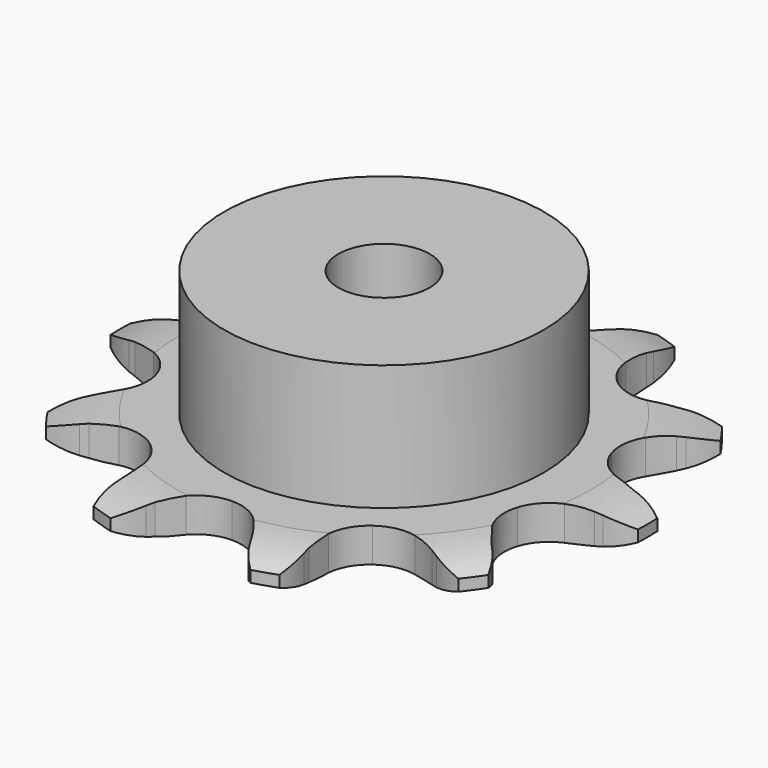
from build123d import *

# Parameters (mm, degrees)
PAD_DEPTH         = 3
SKETCH001_R       = 14
PAD001_DEPTH      = 14
SKETCH002_R       = 4
POCKET_DEPTH      = 0.001
POCKET_DEPTH_BACK = -14.001


with BuildPart() as part:
    # Sprocket → Pad (new body)
    with BuildSketch(Plane.XY):
        with BuildLine():
            ThreePointArc((-7.525974, 23.162566), (-5.805769, 21.995095), (-4.535038, 20.349696))
            Line((-4.535038, 20.349696), (-4.216941, 19.766264))
            ThreePointArc((-4.216941, 19.766264), (-3.641074, 18.833857), (-2.967877, 17.969096))
            ThreePointArc((-2.967877, 17.969096), (-1.630771, 16.970632), (0, 16.616557))
            ThreePointArc((0, 16.616557), (1.630771, 16.970632), (2.967877, 17.969096))
            ThreePointArc((2.967877, 17.969096), (3.641074, 18.833857), (4.216941, 19.766264))
            Line((4.216941, 19.766264), (4.535038, 20.349696))
            ThreePointArc((4.535038, 20.349696), (5.805769, 21.995095), (7.525974, 23.162566))
            ThreePointArc((7.525974, 23.162566), (8.231427, 21.206951), (8.292328, 19.128878))
            Line((8.292328, 19.128878), (8.206742, 18.4699))
            ThreePointArc((8.206742, 18.4699), (8.124572, 17.37708), (8.160907, 16.281778))
            ThreePointArc((8.160907, 16.281778), (8.655766, 14.688072), (9.766967, 13.443077))
            ThreePointArc((9.766967, 13.443077), (11.294408, 12.770986), (12.963032, 12.79283))
            Line((12.963032, 12.79283), (15.029896, 13.512588))
            ThreePointArc((15.029896, 13.512588), (15.327698, 13.660027), (15.630174, 13.797621))
            ThreePointArc((15.630174, 13.797621), (17.625358, 14.38186), (19.703255, 14.315253))
            ThreePointArc((19.703255, 14.315253), (19.124497, 12.318472), (17.952307, 10.601479))
            Line((17.952307, 10.601479), (17.495728, 10.118661))
            ThreePointArc((17.495728, 10.118661), (16.786908, 9.282849), (16.172501, 8.375374))
            ThreePointArc((16.172501, 8.375374), (15.636094, 6.795169), (15.803284, 5.134798))
            ThreePointArc((15.803284, 5.134798), (16.643966, 3.693258), (18.00675, 2.730138))
            Line((18.00675, 2.730138), (20.101941, 2.097562))
            ThreePointArc((20.101941, 2.097562), (20.42953, 2.041799), (20.755114, 1.975324))
            ThreePointArc((20.755114, 1.975324), (22.712659, 1.275244), (24.354563, 0))
            ThreePointArc((24.354563, 0), (22.712659, -1.275244), (20.755114, -1.975324))
            Line((20.755114, -1.975324), (20.101941, -2.097562))
            ThreePointArc((20.101941, -2.097562), (19.037216, -2.357114), (18.00675, -2.730138))
            ThreePointArc((18.00675, -2.730138), (16.643966, -3.693258), (15.803284, -5.134798))
            ThreePointArc((15.803284, -5.134798), (15.636094, -6.795169), (16.172501, -8.375374))
            Line((16.172501, -8.375374), (17.495728, -10.118661))
            ThreePointArc((17.495728, -10.118661), (17.727976, -10.356326), (17.952307, -10.601479))
            ThreePointArc((17.952307, -10.601479), (19.124497, -12.318472), (19.703255, -14.315253))
            ThreePointArc((19.703255, -14.315253), (17.625358, -14.38186), (15.630174, -13.797621))
            Line((15.630174, -13.797621), (15.029896, -13.512588))
            ThreePointArc((15.029896, -13.512588), (14.015954, -13.09674), (12.963032, -12.79283))
            ThreePointArc((12.963032, -12.79283), (11.294408, -12.770986), (9.766967, -13.443077))
            ThreePointArc((9.766967, -13.443077), (8.655766, -14.688072), (8.160907, -16.281778))
            Line((8.160907, -16.281778), (8.206742, -18.4699))
            ThreePointArc((8.206742, -18.4699), (8.254938, -18.798687), (8.292328, -19.128878))
            ThreePointArc((8.292328, -19.128878), (8.231427, -21.206951), (7.525974, -23.162566))
            ThreePointArc((7.525974, -23.162566), (5.805769, -21.995095), (4.535038, -20.349696))
            Line((4.535038, -20.349696), (4.216941, -19.766264))
            ThreePointArc((4.216941, -19.766264), (3.641074, -18.833857), (2.967877, -17.969096))
            ThreePointArc((2.967877, -17.969096), (1.630771, -16.970632), (0, -16.616557))
            ThreePointArc((0, -16.616557), (-1.630771, -16.970632), (-2.967877, -17.969096))
            Line((-2.967877, -17.969096), (-4.216941, -19.766264))
            ThreePointArc((-4.216941, -19.766264), (-4.371206, -20.060588), (-4.535038, -20.349696))
            ThreePointArc((-4.535038, -20.349696), (-5.805769, -21.995095), (-7.525974, -23.162566))
            ThreePointArc((-7.525974, -23.162566), (-8.231427, -21.206951), (-8.292328, -19.128878))
            Line((-8.292328, -19.128878), (-8.206742, -18.4699))
            ThreePointArc((-8.206742, -18.4699), (-8.124572, -17.37708), (-8.160907, -16.281778))
            ThreePointArc((-8.160907, -16.281778), (-8.655766, -14.688072), (-9.766967, -13.443077))
            ThreePointArc((-9.766967, -13.443077), (-11.294408, -12.770986), (-12.963032, -12.79283))
            Line((-12.963032, -12.79283), (-15.029896, -13.512588))
            ThreePointArc((-15.029896, -13.512588), (-15.327698, -13.660027), (-15.630174, -13.797621))
            ThreePointArc((-15.630174, -13.797621), (-17.625358, -14.38186), (-19.703255, -14.315253))
            ThreePointArc((-19.703255, -14.315253), (-19.124497, -12.318472), (-17.952307, -10.601479))
            Line((-17.952307, -10.601479), (-17.495728, -10.118661))
            ThreePointArc((-17.495728, -10.118661), (-16.786908, -9.282849), (-16.172501, -8.375374))
            ThreePointArc((-16.172501, -8.375374), (-15.636094, -6.795169), (-15.803284, -5.134798))
            ThreePointArc((-15.803284, -5.134798), (-16.643966, -3.693258), (-18.00675, -2.730138))
            Line((-18.00675, -2.730138), (-20.101941, -2.097562))
            ThreePointArc((-20.101941, -2.097562), (-20.42953, -2.041799), (-20.755114, -1.975324))
            ThreePointArc((-20.755114, -1.975324), (-22.712659, -1.275244), (-24.354563, 0))
            ThreePointArc((-24.354563, 0), (-22.712659, 1.275244), (-20.755114, 1.975324))
            Line((-20.755114, 1.975324), (-20.101941, 2.097562))
            ThreePointArc((-20.101941, 2.097562), (-19.037216, 2.357114), (-18.00675, 2.730138))
            ThreePointArc((-18.00675, 2.730138), (-16.643966, 3.693258), (-15.803284, 5.134798))
            ThreePointArc((-15.803284, 5.134798), (-15.636094, 6.795169), (-16.172501, 8.375374))
            Line((-16.172501, 8.375374), (-17.495728, 10.118661))
            ThreePointArc((-17.495728, 10.118661), (-17.727976, 10.356326), (-17.952307, 10.601479))
            ThreePointArc((-17.952307, 10.601479), (-19.124497, 12.318472), (-19.703255, 14.315253))
            ThreePointArc((-19.703255, 14.315253), (-17.625358, 14.38186), (-15.630174, 13.797621))
            Line((-15.630174, 13.797621), (-15.029896, 13.512588))
            ThreePointArc((-15.029896, 13.512588), (-14.015954, 13.09674), (-12.963032, 12.79283))
            ThreePointArc((-12.963032, 12.79283), (-11.294408, 12.770986), (-9.766967, 13.443077))
            ThreePointArc((-9.766967, 13.443077), (-8.655766, 14.688072), (-8.160907, 16.281778))
            Line((-8.160907, 16.281778), (-8.206742, 18.4699))
            ThreePointArc((-8.206742, 18.4699), (-8.254938, 18.798687), (-8.292328, 19.128878))
            ThreePointArc((-8.292328, 19.128878), (-8.231427, 21.206951), (-7.525974, 23.162566))
        make_face()
    extrude(amount=PAD_DEPTH)

    # Sketch → Groove (revolve, cut)
    with BuildSketch(Plane.XZ):
        with BuildLine():
            Line((18.1, 0), (23.1, 0))
            Line((28.1, 0), (23.1, 0))
            Line((28.1, 3), (28.1, 0))
            Line((23.1, 3), (28.1, 3))
            Line((18.1, 3), (23.1, 3))
            ThreePointArc((23.1, 2), (20.64951, 2.747549), (18.1, 3))
            Line((23.1, 1), (23.1, 2))
            ThreePointArc((18.1, 0), (20.64951, 0.252451), (23.1, 1))
        make_face()
    revolve(axis=Axis((0, 0, 0), (0, 0, 1)), mode=Mode.SUBTRACT)

    # Sketch001 → Pad001 (join)
    with BuildSketch(Plane.XY):
        Circle(SKETCH001_R)
    extrude(amount=PAD001_DEPTH)

    # Sketch002 → Pocket (cut, two sides)
    with BuildSketch(Plane.XY) as pocket_sk:
        Circle(SKETCH002_R)
    extrude(amount=-POCKET_DEPTH, mode=Mode.SUBTRACT)
    extrude(pocket_sk.sketch, amount=-POCKET_DEPTH_BACK, mode=Mode.SUBTRACT)


solid = part.part
